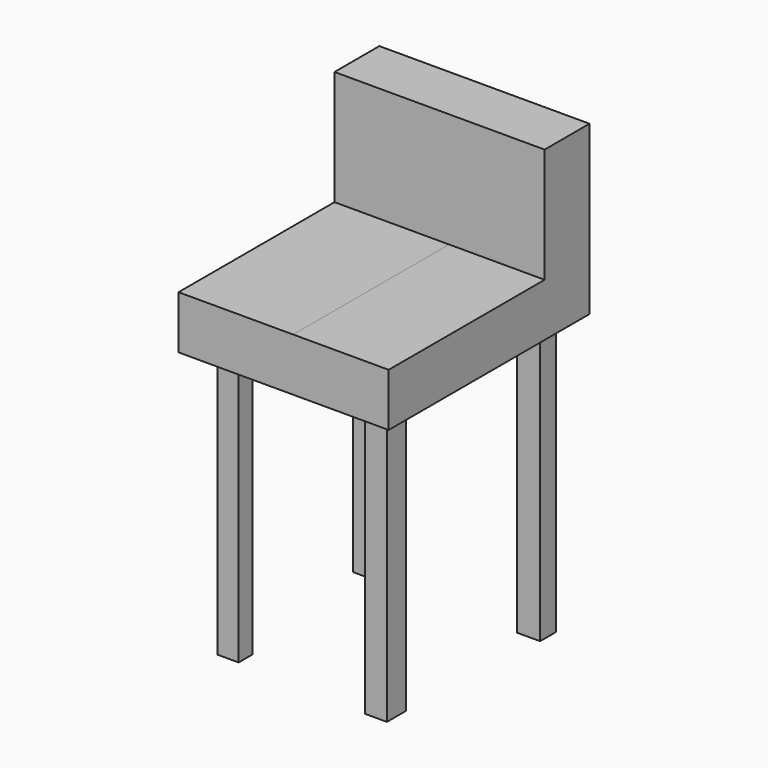
from build123d import *

# Parameters (mm, degrees)
F1_DEPTH  = 4.1148
F4_W      = 1.7967561726
F4_H      = 11.5752667189
F5_DEPTH  = 25.4
F3_W      = 21.1648978293
F3_H      = 11.7423608899
F6_DEPTH  = 25.4
F7_W      = 21.1648978293
F7_H      = 7.5958641246
F8_DEPTH  = 25.4
F9_DEPTH  = 25.4
F10_DEPTH = 25.4
F11_W     = 5.1620183513
F11_H     = 4.3984993827
F11_W_2   = 6.7732334137
F11_H_2   = 3.9715627208
F11_W_3   = 4.8598810099
F11_H_3   = 5.2507780492
F11_W_4   = 4.6935081482
F11_H_4   = 3.8872100413
F12_DEPTH = 59.69
F13_DEPTH = 4.826


with BuildPart() as f1:
    # F0 (on Front) → F1 (new body)
    with BuildSketch(Plane.XZ):
        Polygon((1.2734923512, 7.3978709988), (1.0500258068, 4.5483880676), (11.4485891536, 4.5483880676), (12.1993478388, 7.3978709988), align=None)
        Polygon((-2.1805709694, 3.6492620129), (1.0500258068, 4.5483880676), (1.2734923512, 7.3978709988), (-2.1805709694, 6.1951475218), align=None)
        Polygon((11.4485891536, 4.5483880676), (1.0500258068, 4.5483880676), (-2.1805709694, 3.6492620129), (-0.5589149077, 2.3352366406), (16.0257890821, 2.3352366406), align=None)
        Polygon((12.1993478388, 7.3978709988), (11.4485891536, 4.5483880676), (16.0257890821, 2.3352366406), (17.6053401083, 4.832720384), align=None)
    extrude(amount=F1_DEPTH)


with BuildPart() as f5:
    # F4 (on face) → F5 (new body)
    with BuildSketch(Plane.XZ):
        with Locations((4.1603924474, 102.1747291088)):
            Rectangle(F4_W, F4_H)
    extrude(amount=F5_DEPTH)

    # F3 (on Front) → F6 (join)
    with BuildSketch(Plane.XZ):
        with Locations((-5.4645147175, 102.1133996546)):
            Rectangle(F3_W, F3_H)
    extrude(amount=F6_DEPTH)

    # F7 (on face) → F8 (join)
    with BuildSketch(Plane.XY.offset(107.9845800996)):
        with Locations((-5.4645147175, -3.7979320623)):
            Rectangle(F7_W, F7_H)
    extrude(amount=F8_DEPTH)

    # F9 (add): a face of the model
    f9_faces = [f5.faces().sort_by_distance(p)[0] for p in [
        (-5.4645147175, -25.4, 102.1133996546),
    ]]
    extrude(f9_faces, amount=F9_DEPTH)

    # F10 (add): a face of the model
    f10_faces = [f5.faces().sort_by_distance(p)[0] for p in [
        (-16.0469636321, -20.1206151979, 106.6520580868),
    ]]
    extrude(f10_faces, amount=F10_DEPTH)

    # F11 (on face) → F12 (join)
    with BuildSketch(Plane(origin=(0, 0, 96.2422192097), x_dir=(1, 0, 0), z_dir=(0, 0, -1))):
        with Locations((0.8170665242, 4.5063399011)):
            Rectangle(F11_W, F11_H)
        with Locations((-34.7215011716, 4.719808232)):
            Rectangle(F11_W_2, F11_H_2)
        with Locations((-0.8347902913, 44.2584287375)):
            Rectangle(F11_W_3, F11_H_3)
        with Locations((-34.7008481622, 43.5766447335)):
            Rectangle(F11_W_4, F11_H_4)
    extrude(amount=F12_DEPTH)

    # F13 (add): a face of the model
    f13_faces = [f5.faces().sort_by_distance(p)[0] for p in [
        (-18.1645147175, 0, 114.8133996546),
    ]]
    extrude(f13_faces, amount=F13_DEPTH)


solid = f5.part
